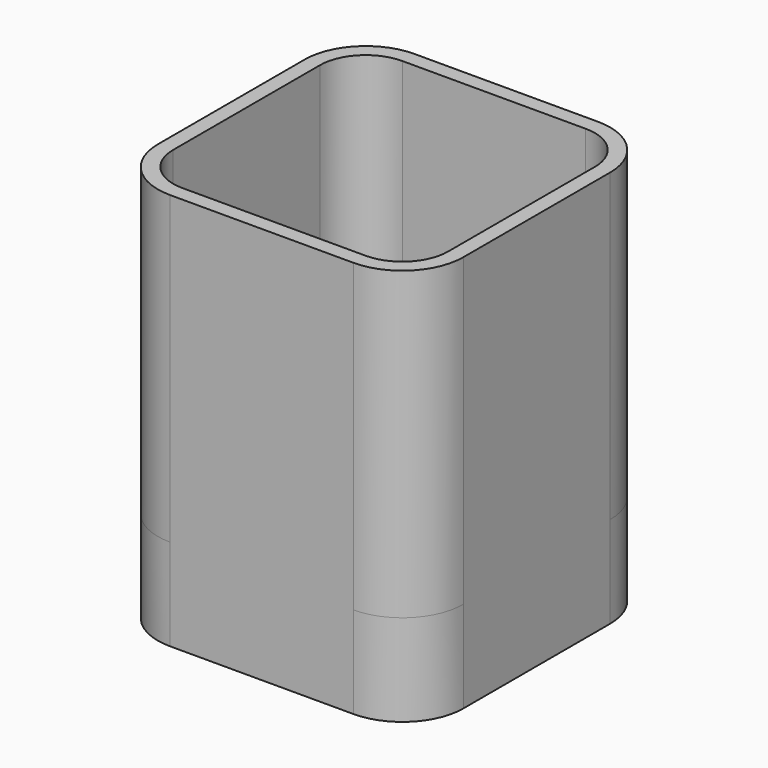
from build123d import *

# Parameters (mm, degrees)
F0_W     = 50
F0_H     = 50
F1_DEPTH = 50
F2_R     = 10
F3_DEPTH = 15
F4_T     = -2.5


with BuildPart() as f1:
    # F0 (on Top) → F1 (new body)
    with BuildSketch(Plane.XY):
        Rectangle(F0_W, F0_H)
    extrude(amount=F1_DEPTH)

    # F2
    f2_edges = [f1.edges().sort_by_distance(p)[0] for p in [
        (-25, -25, 25),
        (-25, 25, 25),
        (25, 25, 25),
        (25, -25, 25),
    ]]
    fillet(f2_edges, radius=F2_R)

    # F1_face (on face) → F3 (join)
    with BuildSketch(Plane(origin=(0, 0, 0), x_dir=(1, 0, 0), z_dir=(0, 0, -1))):
        with BuildLine():
            Line((-25, 15), (-25, -15))
            ThreePointArc((-25, -15), (-22.071068, -22.071068), (-15, -25))
            Line((-15, -25), (15, -25))
            ThreePointArc((15, -25), (22.071068, -22.071068), (25, -15))
            Line((25, -15), (25, 15))
            ThreePointArc((25, 15), (22.071068, 22.071068), (15, 25))
            Line((15, 25), (-15, 25))
            ThreePointArc((-15, 25), (-22.071068, 22.071068), (-25, 15))
        make_face()
    extrude(amount=F3_DEPTH)

    # F4
    f4_openings = [f1.faces().sort_by_distance(p)[0] for p in [
        (0, 0, 50),
    ]]
    offset(amount=F4_T, openings=f4_openings)


solid = f1.part
